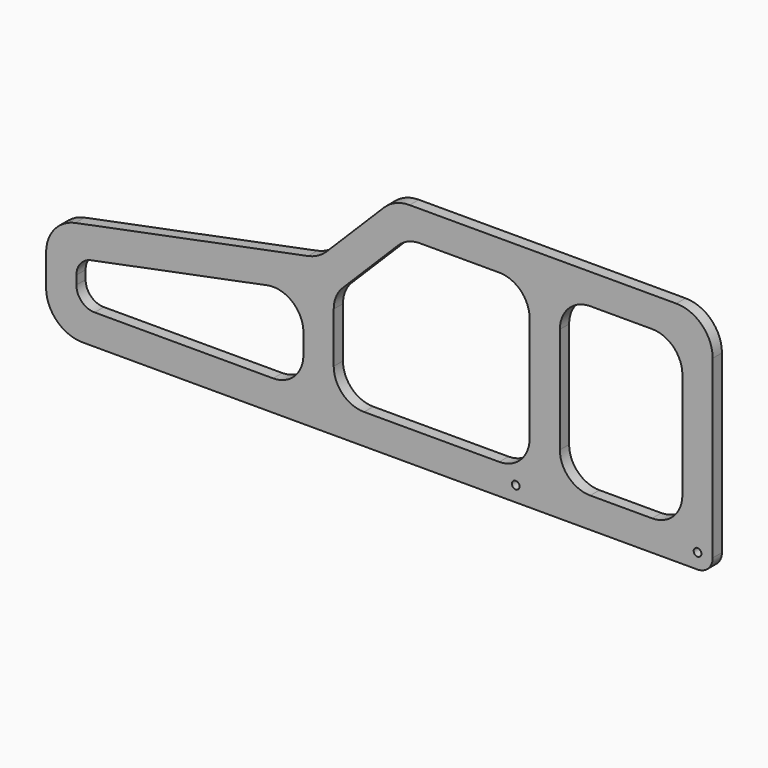
from build123d import *

# Parameters (mm, degrees)
F1_DEPTH = 19.05
F2_R     = 6.35
F3_DEPTH = 25
F4_R     = 6.35
F5_DEPTH = 25
F6_DEPTH = 25
F7_W     = 202.144652
F7_H     = 274.999976
F8_DEPTH = 25
F9_R     = 50
F10_R    = 60
F11_R    = 25
F12_R    = 30


with BuildPart() as f1:
    # F0 (on Front) → F1 (new body)
    with BuildSketch(Plane.XZ):
        Polygon((-1100, 0), (0, 0), (0, 375), (-525, 375), (-650, 250), (-1100, 160), align=None)
    extrude(amount=F1_DEPTH)

    # F2 (on face) → F3 (cut)
    with BuildSketch(Plane.XZ.offset(19.05)):
        with Locations((-325, 25)):
            Circle(F2_R)
    extrude(amount=-F3_DEPTH, mode=Mode.SUBTRACT)

    # F4 (on face) → F5 (cut)
    with BuildSketch(Plane.XZ.offset(19.05)):
        with Locations((-25, 25)):
            Circle(F4_R)
    extrude(amount=-F5_DEPTH, mode=Mode.SUBTRACT)

    # F4 (on face) → F6 (cut)
    with BuildSketch(Plane.XZ.offset(19.05)):
        with Locations((-25, 25)):
            Circle(F4_R)
        with Locations((-25, 25)):
            Circle(F4_R)
    extrude(amount=F6_DEPTH, mode=Mode.SUBTRACT)

    # F7 (on face) → F8 (cut)
    with BuildSketch(Plane.XZ.offset(19.05)):
        Polygon((-675.34939, 50.000012), (-675.34939, 193.939915), (-1049.999988, 119.009795), (-1049.999988, 50.000012), align=None)
        Polygon((-504.289317, 324.999988), (-625.34939, 203.939915), (-625.34939, 50.000012), (-302.144664, 50.000012), (-302.144664, 324.999988), align=None)
        with Locations((-151.072338, 187.5)):
            Rectangle(F7_W, F7_H)
    extrude(amount=-F8_DEPTH, mode=Mode.SUBTRACT)

    # F9
    f9_edges = [f1.edges().sort_by_distance(p)[0] for p in [
        (-675.34939, -9.525, 50.000012),
        (-675.34939, -9.525, 193.939915),
        (-625.34939, -9.525, 203.939915),
        (-625.34939, -9.525, 50.000012),
        (-504.289317, -9.525, 324.999988),
        (-302.144664, -9.525, 324.999988),
        (-302.144664, -9.525, 50.000012),
        (-50.000012, -9.525, 50.000012),
        (-252.144664, -9.525, 50.000012),
        (-252.144664, -9.525, 324.999988),
        (-50.000012, -9.525, 324.999988),
    ]]
    fillet(f9_edges, radius=F9_R)

    # F10
    f10_edges = [f1.edges().sort_by_distance(p)[0] for p in [
        (-650, -9.525, 250),
        (-525, -9.525, 375),
        (0, -9.525, 375),
        (-1100, -9.525, 160),
        (-1100, -9.525, 0),
    ]]
    fillet(f10_edges, radius=F10_R)

    # F11
    f11_edges = [f1.edges().sort_by_distance(p)[0] for p in [
        (0, -9.525, 0),
    ]]
    fillet(f11_edges, radius=F11_R)

    # F12
    f12_edges = [f1.edges().sort_by_distance(p)[0] for p in [
        (-1049.999988, -9.525, 119.009795),
        (-1049.999988, -9.525, 50.000012),
    ]]
    fillet(f12_edges, radius=F12_R)


solid = f1.part
